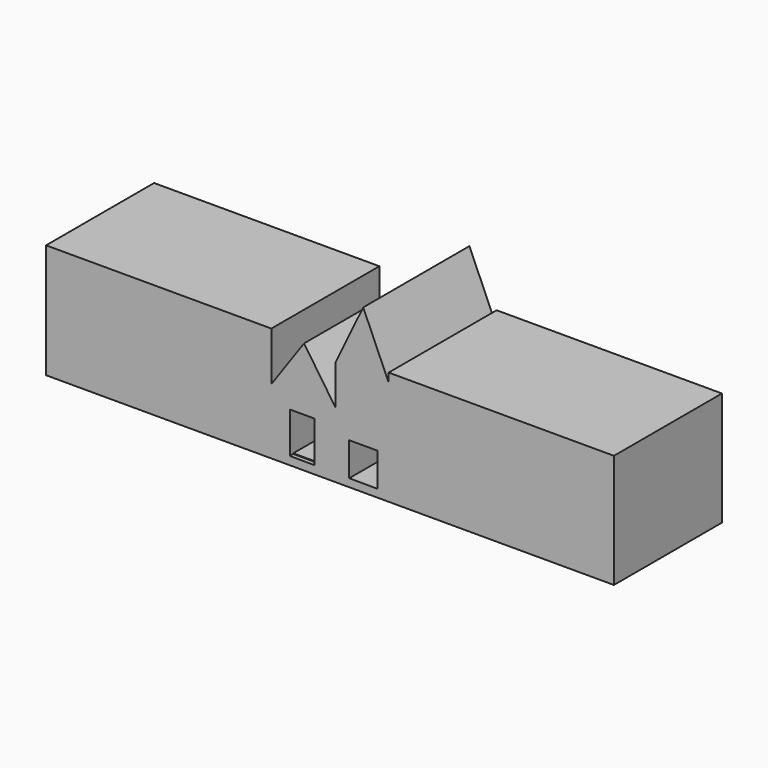
from build123d import *

# Parameters (mm, degrees)
F1_DEPTH  = 25.4
F2_DEPTH  = 105.41
F4_DEPTH  = 25.4
F7_DEPTH  = 34.544
F8_DEPTH  = 25.4
F9_W      = 33.2944607362
F9_H      = 55.5258449167
F10_DEPTH = 25.4
F11_DEPTH = 249.682
F12_W     = 53.8298841566
F12_H     = 169.9287788942
F12_W_2   = 19.2790124565
F13_DEPTH = 1.524
F14_DEPTH = 70.866
F16_W     = 37.628442049
F16_H     = 45.0919307768
F17_DEPTH = 178.054
F18_DEPTH = 53.594
F20_DEPTH = 178.054
F22_DEPTH = 181.102
F23_DEPTH = 302.26
F24_DEPTH = 302.26
F25_DEPTH = 142.24
F26_DEPTH = 142.24


with BuildPart() as f1:
    # F0 (on Front) → F1 (new body)
    with BuildSketch(Plane.XZ):
        Polygon((-43.6498820782, -77.5746703148), (42.2929041088, -77.5746703148), (42.2929041088, 0), (0, 62.1954351664), (-43.6498820782, 0), align=None)
    extrude(amount=F1_DEPTH)

    # F2 (add): a face of the model
    f2_faces = [f1.faces().sort_by_distance(p)[0] for p in [
        (-0.6137701258, -25.4, -21.7553212645),
    ]]
    extrude(f2_faces, amount=F2_DEPTH)

    # F3 (on face) → F4 (join)
    with BuildSketch(Plane.XZ.offset(130.81)):
        Polygon((-43.6498820782, 0), (-43.6498820782, -77.5746703148), (42.2929041088, -77.5746703148), (42.2929041088, 0), (0, 62.1954351664), align=None)
    extrude(amount=F4_DEPTH)

    # F6 (on face) → F7 (join)
    with BuildSketch(Plane.XZ.offset(156.21)):
        Polygon((-16.9418714941, -35.6023237109), (-16.9418714941, -77.5746703148), (13.7008177117, -77.5746703148), (13.7008177117, -37.0755307376), (13.7008177117, -35.6023237109), align=None)
    extrude(amount=-F7_DEPTH)

    # F5 (on face) → F8 (join)
    with BuildSketch(Plane.XZ.offset(156.21)):
        Polygon((-17.8257934749, -77.5746703148), (13.7008177117, -77.5746703148), (42.2929041088, -77.5746703148), (42.2929041088, 0), (0, 62.1954351664), (-43.6498820782, 0), (-43.6498820782, -77.5746703148), align=None)
    extrude(amount=F8_DEPTH)

    # F9 (on face) → F10 (join)
    with BuildSketch(Plane.XZ.offset(181.61)):
        with Locations((-2.3571313359, -49.8117478564)):
            Rectangle(F9_W, F9_H)
    extrude(amount=F10_DEPTH)

    # F11 (cut): a face of the model
    f11_faces = [f1.faces().sort_by_distance(p)[0] for p in [
        (-2.3571313359, -207.01, -49.8117478564),
    ]]
    extrude(f11_faces, amount=-F11_DEPTH, mode=Mode.SUBTRACT)

    # F12 (on face) → F13 (join)
    with BuildSketch(Plane(origin=(0, 0, -77.5746703148), x_dir=(1, 0, 0), z_dir=(0, 0, -1))):
        with Locations((7.9105803743, 90.9883729182)):
            Rectangle(F12_W, F12_H)
        with Locations((-28.6438679323, 90.9883729182)):
            Rectangle(F12_W_2, F12_H)
    extrude(amount=-F13_DEPTH)

    # F14 (add): a face of the model
    f14_faces = [f1.faces().sort_by_distance(p)[0] for p in [
        (42.2929041088, -90.805, -38.7873351574),
    ]]
    extrude(f14_faces, amount=F14_DEPTH)

    # F16 (on face) → F17 (cut)
    with BuildSketch(Plane.XZ.offset(181.61)):
        with Locations((79.4716104865, -54.9975987524)):
            Rectangle(F16_W, F16_H)
    extrude(amount=-F17_DEPTH, mode=Mode.SUBTRACT)

    # F18 (add): a face of the model
    f18_faces = [f1.faces().sort_by_distance(p)[0] for p in [
        (77.7259041088, -90.805, 0),
    ]]
    extrude(f18_faces, amount=F18_DEPTH)

    # F19 (on face) → F20 (join)
    with BuildSketch(Plane.XZ.offset(181.61)):
        Polygon((79.4050395489, 130.5681169033), (42.2929041088, 53.594), (113.1589041088, 53.594), align=None)
    extrude(amount=-F20_DEPTH)

    # F21 (on face) → F22 (join)
    with BuildSketch(Plane.XZ.offset(181.61)):
        Polygon((-43.6498820782, -76.761349558), (-43.8248664141, -76.7604261637), (-43.8248664141, -87.9684388638), (113.5024726391, -87.9684388638), (113.5024726391, -77.5906443596), (42.2929041088, -77.2148706392), (42.2929041088, -77.5746703148), (14.2900990322, -77.5746703148), (14.2900990322, -77.0670995115), (-19.004361704, -76.8914042554), (-19.004361704, -77.5746703148), (-43.6498820782, -77.5746703148), align=None)
    extrude(amount=-F22_DEPTH)

    # F23 (add): a face of the model
    f23_faces = [f1.faces().sort_by_distance(p)[0] for p in [
        (-43.8248664141, -91.059, -82.3644325137),
    ]]
    extrude(f23_faces, amount=F23_DEPTH)

    # F24 (add): a face of the model
    f24_faces = [f1.faces().sort_by_distance(p)[0] for p in [
        (113.5024726391, -91.059, -82.7795416117),
    ]]
    extrude(f24_faces, amount=F24_DEPTH)

    # F25 (add): a face of the model
    f25_faces = [f1.faces().sort_by_distance(p)[0] for p in [
        (-194.9548664141, -91.059, -76.7604261637),
    ]]
    extrude(f25_faces, amount=F25_DEPTH)

    # F26 (add): a face of the model
    f26_faces = [f1.faces().sort_by_distance(p)[0] for p in [
        (264.6324726391, -91.059, -77.5906443596),
    ]]
    extrude(f26_faces, amount=F26_DEPTH)


solid = f1.part
